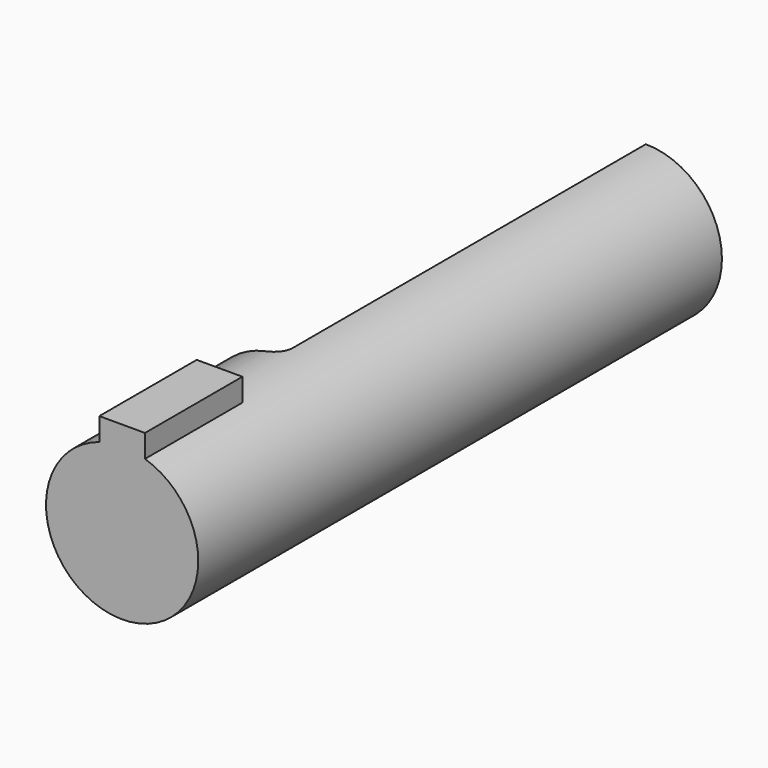
from build123d import *

# Parameters (mm, degrees)
F0_R     = 5
F1_DEPTH = 43
F3_DEPTH = 8
F4_W     = 6.116576
F4_H     = 10
F5_DEPTH = 30
F6_R     = 1


with BuildPart() as f1:
    # F0 (on Front) → F1 (new body)
    with BuildSketch(Plane.XZ):
        Circle(F0_R)
    extrude(amount=F1_DEPTH)

    # F2 (on face) → F3 (join)
    with BuildSketch(Plane.XZ.offset(43)):
        with BuildLine():
            Line((-1.5, 6.269696), (-1.5, 4.769696))
            ThreePointArc((-1.5, 4.769696), (0, 5), (1.5, 4.769696))
            Line((1.5, 4.769696), (1.5, 6.269696))
            Line((1.5, 6.269696), (-1.5, 6.269696))
        make_face()
    extrude(amount=-F3_DEPTH)

    # F4 (on face) → F5 (cut)
    with BuildSketch(Plane(origin=(0, 0, 0), x_dir=(-1, 0, 0), z_dir=(0, 1, 0))):
        with Locations((3.058288, 0)):
            Rectangle(F4_W, F4_H)
    extrude(amount=-F5_DEPTH, mode=Mode.SUBTRACT)

    # F6
    f6_edges = [f1.edges().sort_by_distance(p)[0] for p in [
        (0, -30, 0),
    ]]
    fillet(f6_edges, radius=F6_R)


solid = f1.part
